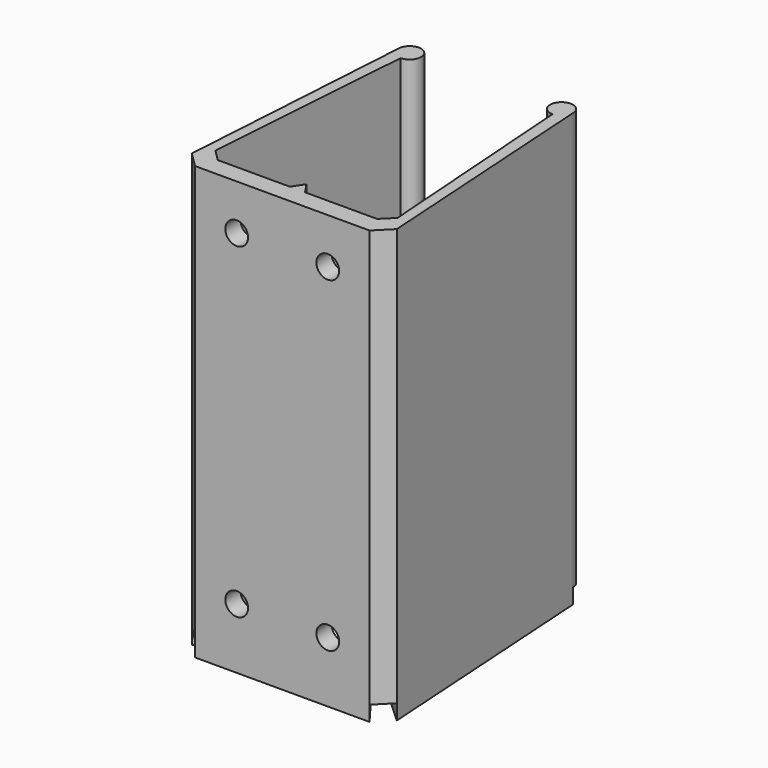
from build123d import *

# Parameters (mm, degrees)
PAD_DEPTH    = 55
PAD001_DEPTH = 2
SKETCH001_R  = 1.5
POCKET_DEPTH = 179.264648


with BuildPart() as part:
    # Sketch → Pad (new body)
    with BuildSketch(Plane.XY):
        with BuildLine():
            Line((11.5, 0), (13.5, 2))
            Line((13.5, 2), (11.5, 33.5))
            ThreePointArc((11.5, 33.5), (8.93934, 34.56066), (10, 32))
            Line((10, 32), (12, 4))
            Line((12, 4), (10.5, 2.5))
            Line((1, 2.5), (10.5, 2.5))
            Line((0, 4), (1, 2.5))
            Line((0, 4), (0, 0))
            Line((0, 0), (11.5, 0))
        make_face()
    pad = extrude(amount=PAD_DEPTH)

    # Mirrored: Pad across Sketch V_Axis
    add(pad.mirror(Plane(origin=(0, 0, 0), x_dir=(0, 0, 1), z_dir=(1, 0, 0))))

    # Sketch002 → Pad001 (join)
    with BuildSketch(Plane.XY):
        Polygon((11.5, 33.5), (7.5, 33.5), (7.5, 7.5), (13.5, 2), align=None)
        Polygon((11.5, 0), (7, 6), (0, 6), (0, 0), align=None)
    pad001 = extrude(amount=-PAD001_DEPTH)

    # Mirrored001: Pad001 across Sketch002 V_Axis
    add(pad001.mirror(Plane(origin=(0, 0, 0), x_dir=(0, 0, 1), z_dir=(1, 0, 0))))

    # Sketch001 → Pocket (cut, through all)
    with BuildSketch(Plane.XZ):
        with Locations((6, 6)):
            Circle(SKETCH001_R)
        with Locations((6, 49)):
            Circle(SKETCH001_R)
    pocket = extrude(amount=-POCKET_DEPTH, mode=Mode.SUBTRACT)

    # Mirrored002: Pocket across Sketch001 V_Axis
    add(pocket.mirror(Plane(origin=(0, 0, 0), x_dir=(0, -1, 0), z_dir=(1, 0, 0))), mode=Mode.SUBTRACT)


solid = part.part
